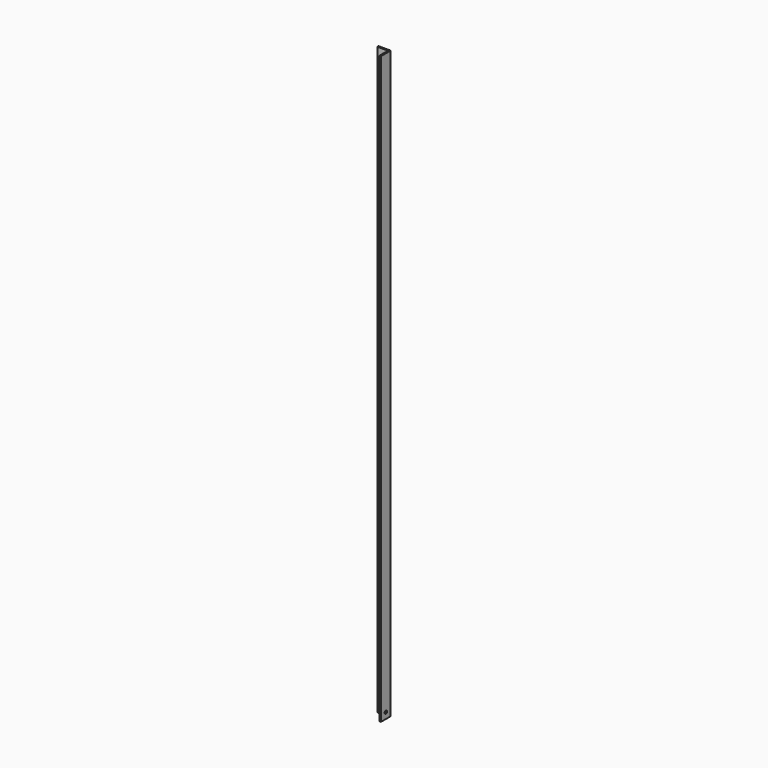
from build123d import *

# Parameters (mm, degrees)
F1_DEPTH = 1828.8
F2_R     = 4.7625
F3_DEPTH = 38.101


with BuildPart() as f1:
    # F0 (on Top) → F1 (new body)
    with BuildSketch(Plane.XY):
        Polygon((38.1, 0), (0, 0), (0, -4.7625), (33.3375, -4.7625), (33.3375, -38.1), (38.1, -38.1), align=None)
    extrude(amount=F1_DEPTH)

    # F2 (on face) → F3 (cut, through all)
    with BuildSketch(Plane.YZ.offset(38.1)):
        with Locations((-19.05, 19.05)):
            Circle(F2_R)
    extrude(amount=-F3_DEPTH, mode=Mode.SUBTRACT)


solid = f1.part
